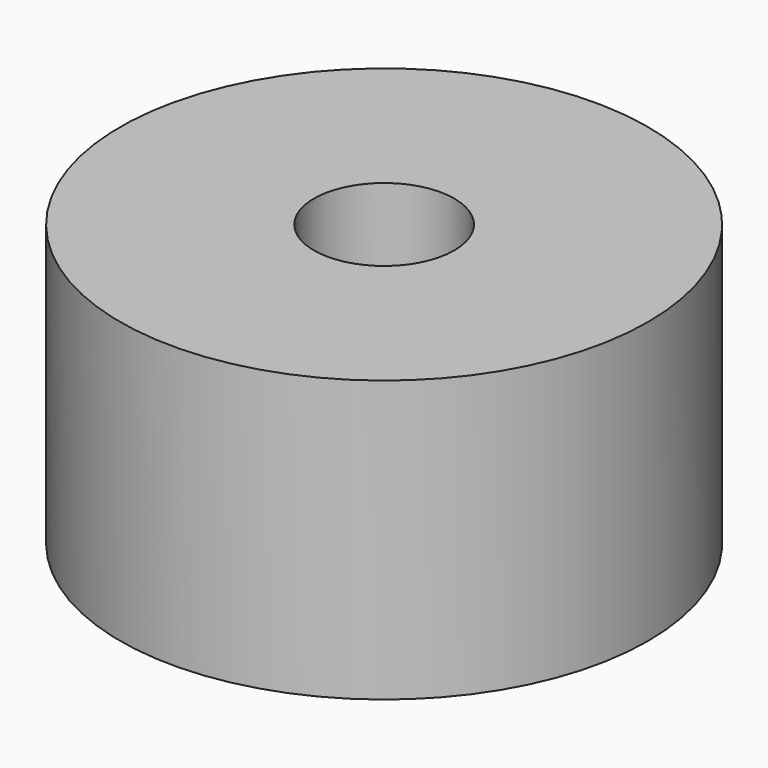
from build123d import *

# Parameters (mm, degrees)
F0_R     = 23.5
F0_R_2   = 17.5
F0_R_3   = 6.25
F1_DEPTH = 25


with BuildPart() as f1:
    # F0 (on Top) → F1 (new body)
    with BuildSketch(Plane.XY):
        Circle(F0_R)
        Circle(F0_R_2, mode=Mode.SUBTRACT)
        Circle(F0_R_2)
        Circle(F0_R_3, mode=Mode.SUBTRACT)
    extrude(amount=F1_DEPTH)


solid = f1.part
